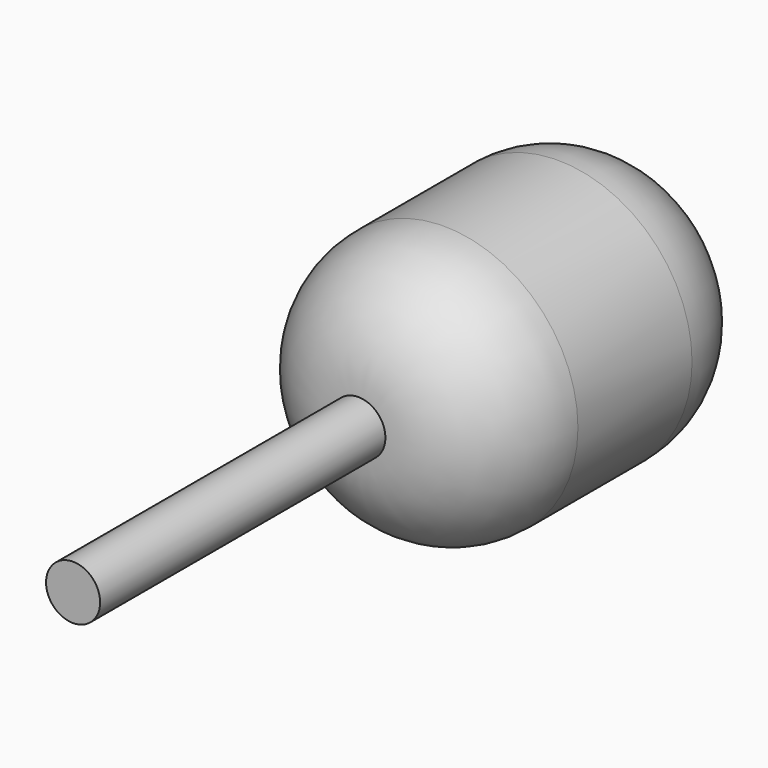
from build123d import *

# Parameters (mm, degrees)
F0_R      = 28.641111
F1_DEPTH  = 76.2
F2_R      = 22.86
F1_FACE_R = 5.781111
F3_DEPTH  = 152.4


with BuildPart() as f1:
    # F0 (on Front) → F1 (new body)
    with BuildSketch(Plane.XZ):
        Circle(F0_R)
    extrude(amount=F1_DEPTH)

    # F2
    f2_edges = [f1.edges().sort_by_distance(p)[0] for p in [
        (-28.641111, -76.2, 0),
        (28.641111, -38.1, 0),
        (-28.641111, 0, 0),
    ]]
    fillet(f2_edges, radius=F2_R)

    # F1_face (on face) → F3 (join)
    with BuildSketch(Plane(origin=(0, 0, 0), x_dir=(1, 0, 0), z_dir=(0, 1, 0))):
        Circle(F1_FACE_R)
    extrude(amount=-F3_DEPTH)


solid = f1.part
